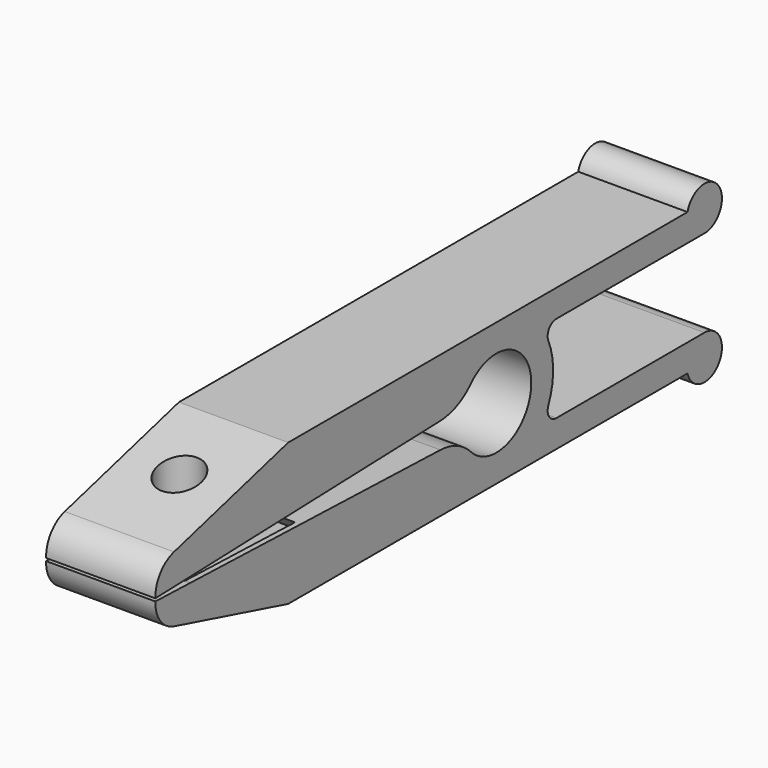
from build123d import *

# Parameters (mm, degrees)
PAD030_DEPTH         = 10
PAD041_DEPTH         = 1
SKETCH081_R          = 4
POCKET023_DEPTH      = 16.001
POCKET023_DEPTH_BACK = 16.001


with BuildPart() as part:
    # Sketch066 → Pad030 (new body, symmetric)
    with BuildSketch(Plane.YZ):
        with BuildLine():
            ThreePointArc((54.1777871717, -5.4865141741), (68, 0), (54.1777871717, 5.4865141741))
            ThreePointArc((47.2218073921, 2.3498355523), (51.010737248, 3.2286263383), (54.1777871717, 5.4865141741))
            Line((47.2218073921, 2.3498355523), (15.1843604449, 1.3183803873))
            Line((17.6038721988, 3.8988686334), (15.1843604449, 1.3183803873))
            Line((-12.580488246, 2.9270741413), (17.6038721988, 3.8988686334))
            Line((-10, 0.5075623873), (-12.580488246, 2.9270741413))
            Line((-10, 0.5075623873), (-18, 0.25))
            ThreePointArc((-13.7330991232, 6), (-16.8683496754, 3.8684055277), (-18, 0.25))
            Line((-13.7330991232, 6), (12.3912565298, 13))
            Line((12.3912565298, 13), (103.7477270849, 13))
            ThreePointArc((107.6207104311, 8), (110.7829880912, 14.4494897428), (103.7477270849, 13))
            Line((73.7477270849, 8), (107.6207104311, 8))
            ThreePointArc((73.7477270849, 8), (72.0744070318, 7.095445115), (71.9146968069, 5.2))
            ThreePointArc((71.9146968069, -5.2), (73, 0), (71.9146968069, 5.2))
            ThreePointArc((71.9146968069, -5.2), (72.0744070318, -7.095445115), (73.7477270849, -8))
            Line((73.7477270849, -8), (107.6207104311, -8))
            ThreePointArc((103.7477270849, -13), (110.7829880912, -14.4494897428), (107.6207104311, -8))
            Line((12.3912565298, -13), (103.7477270849, -13))
            Line((-13.7330991232, -6), (12.3912565298, -13))
            ThreePointArc((-18, -0.25), (-16.8683496754, -3.8684055277), (-13.7330991232, -6))
            Line((-18, -0.25), (-10, -0.5075623873))
            Line((-10, -0.5075623873), (-12.580488246, -2.9270741413))
            Line((-12.580488246, -2.9270741413), (17.6038721988, -3.8988686334))
            Line((17.6038721988, -3.8988686334), (15.1843604449, -1.3183803873))
            Line((15.1843604449, -1.3183803873), (47.2218073921, -2.3498355523))
            ThreePointArc((54.1777871717, -5.4865141741), (51.010737248, -3.2286263383), (47.2218073921, -2.3498355523))
        make_face()
    extrude(amount=PAD030_DEPTH, both=True)

    # Sketch082 (on Face28 of Pad030) → Pad041 (join)
    with BuildSketch(Plane.YZ.offset(10)):
        Polygon((-12.580488246, 2.9270741413), (-10, 0.5075623873), (15.1843604449, 1.3183803873), (17.6038721988, 3.8988686334), align=None)
        Polygon((-10, -0.5075623873), (15.1843604449, -1.3183803873), (17.6038721988, -3.8988686334), (-12.580488246, -2.9270741413), align=None)
    extrude(amount=-PAD041_DEPTH)

    # Sketch081 → Pocket023 (cut, two sides)
    with BuildSketch(Plane.XY) as pocket023_sk:
        Circle(SKETCH081_R)
    extrude(amount=-POCKET023_DEPTH, mode=Mode.SUBTRACT)
    extrude(pocket023_sk.sketch, amount=POCKET023_DEPTH_BACK, mode=Mode.SUBTRACT)


with BuildPart() as part_1:
    # Body021 placement: moved
    add(part.part.moved(Location((0, -2, 2.5))))


solid = part_1.part
